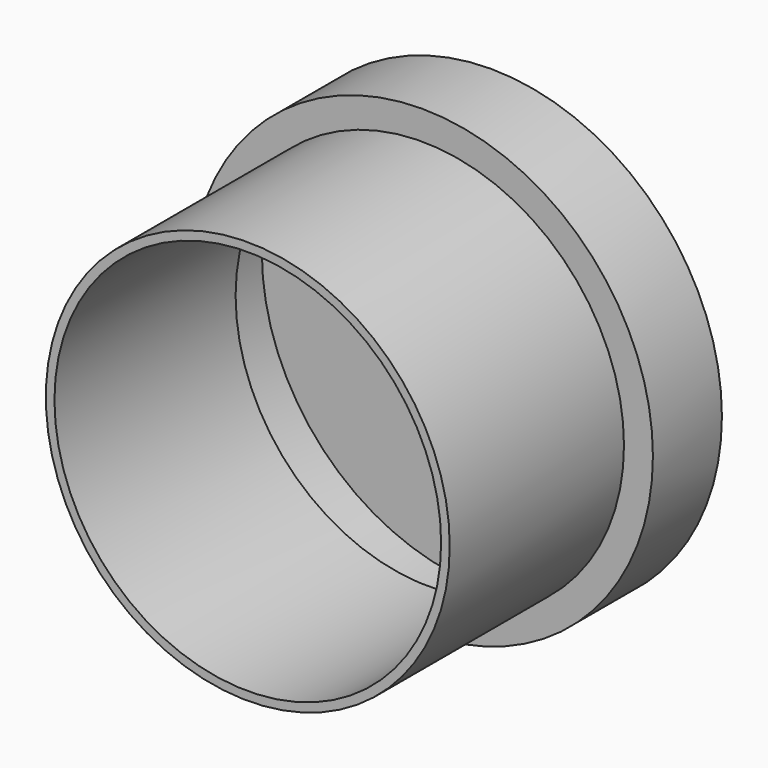
from build123d import *

# Parameters (mm, degrees)
F0_R     = 67.9912041861
F1_DEPTH = 25.4
F2_R     = 59.4709809198
F3_DEPTH = 89.535
F4_T     = -2.54


with BuildPart() as f1:
    # F0 (on Front) → F1 (new body)
    with BuildSketch(Plane.XZ):
        Circle(F0_R)
    extrude(amount=F1_DEPTH)

    # F2 (on Front) → F3 (join)
    with BuildSketch(Plane.XZ):
        Circle(F2_R)
    extrude(amount=F3_DEPTH)

    # F4
    f4_openings = [f1.faces().sort_by_distance(p)[0] for p in [
        (0, -89.535, 0),
    ]]
    offset(amount=F4_T, openings=f4_openings, kind=Kind.INTERSECTION)


solid = f1.part
